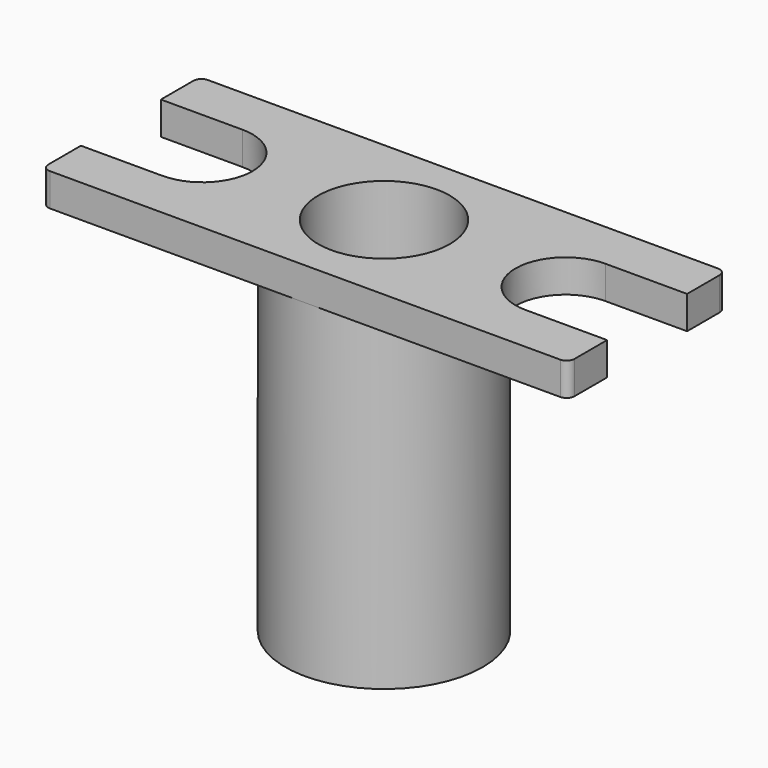
from build123d import *

# Parameters (mm, degrees)
F0_W     = 19.05
F0_H     = 63.5
F2_W     = 101.6
F2_H     = 38.1
F3_DEPTH = 6.35
F5_DEPTH = 6.35
F4_R     = 12.7
F4_R_2   = 4.7625
F6_DEPTH = 63.5
F7_DEPTH = 69.851
F8_DEPTH = 6.35
F9_R     = 1.524


with BuildPart() as f1:
    # F0 (on Front) → F1 (revolve)
    with BuildSketch(Plane.XZ):
        with Locations((9.525, 31.75)):
            Rectangle(F0_W, F0_H)
    revolve(axis=Axis((0, 0, 31.75), (0, 0, 1)))

    # F2 (on face) → F3 (join)
    with BuildSketch(Plane.XY.offset(63.5)):
        Rectangle(F2_W, F2_H)
    extrude(amount=F3_DEPTH)

    # F4 (on face) → F5 (cut, through all)
    with BuildSketch(Plane.XY.offset(69.85)):
        with BuildLine():
            Line((35.052, -9.652), (50.8, -9.652))
            Line((50.8, -9.652), (50.8, 9.652))
            Line((50.8, 9.652), (35.052, 9.652))
            ThreePointArc((35.052, 9.652), (25.4, 0), (35.052, -9.652))
        make_face()
    extrude(amount=-F5_DEPTH, mode=Mode.SUBTRACT)

    # F4 (on face) → F6 (cut)
    with BuildSketch(Plane.XY.offset(69.85)):
        Circle(F4_R)
        Circle(F4_R_2, mode=Mode.SUBTRACT)
    extrude(amount=-F6_DEPTH, mode=Mode.SUBTRACT)

    # F4 (on face) → F7 (cut, through all)
    with BuildSketch(Plane.XY.offset(69.85)):
        Circle(F4_R_2)
    extrude(amount=-F7_DEPTH, mode=Mode.SUBTRACT)

    # F4 (on face) → F8 (cut, through all)
    with BuildSketch(Plane.XY.offset(69.85)):
        with BuildLine():
            Line((-50.8, 9.652), (-50.8, -9.652))
            Line((-50.8, -9.652), (-35.052, -9.652))
            ThreePointArc((-35.052, -9.652), (-25.4, 0), (-35.052, 9.652))
            Line((-35.052, 9.652), (-50.8, 9.652))
        make_face()
    extrude(amount=-F8_DEPTH, mode=Mode.SUBTRACT)

    # F9
    f9_edges = [f1.edges().sort_by_distance(p)[0] for p in [
        (50.8, -19.05, 66.675),
        (50.8, 19.05, 66.675),
        (-50.8, -19.05, 66.675),
        (-50.8, 19.05, 66.675),
    ]]
    fillet(f9_edges, radius=F9_R)


solid = f1.part
